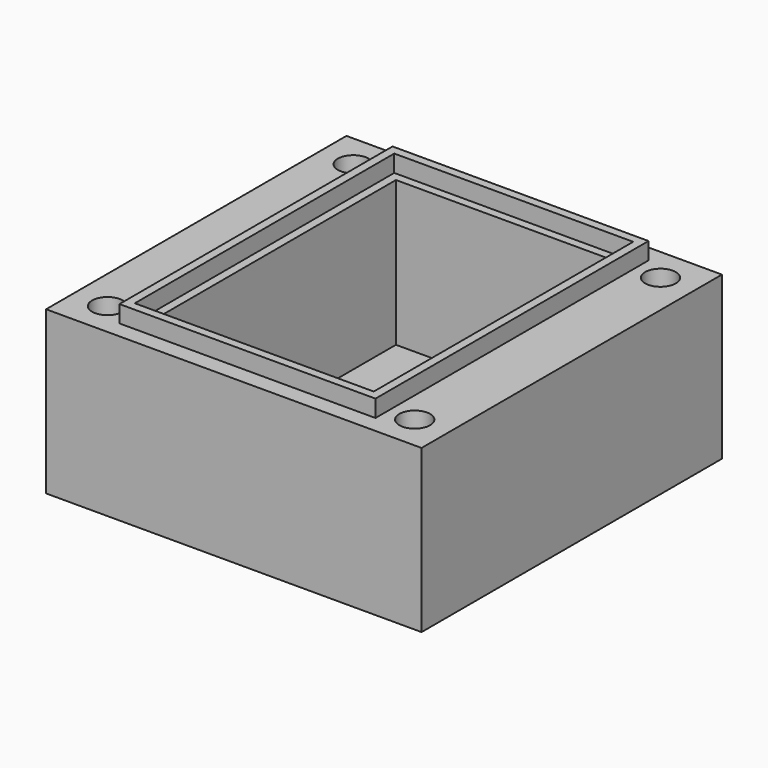
from build123d import *

# Parameters (mm, degrees)
CYLINDER002_R     = 1.5
CYLINDER002_DEPTH = 10
CYLINDER001_R     = 1.5
CYLINDER001_DEPTH = 10
SKETCH_W          = 30
SKETCH_H          = 40
SKETCH_W_2        = 28
SKETCH_H_2        = 38
PAD_DEPTH         = 2
CYLINDER006_R     = 1.8
CYLINDER006_DEPTH = 6
CYLINDER007_R     = 1.8
CYLINDER007_DEPTH = 6
CYLINDER008_R     = 1.8
CYLINDER008_DEPTH = 6
CYLINDER005_R     = 1.8
CYLINDER005_DEPTH = 6
BOX001_W          = 26
BOX001_H          = 36
BOX001_DEPTH      = 17
BOX_W             = 44
BOX_H             = 44
BOX_DEPTH         = 19


with BuildPart() as obj1:
    # Cylinder002 → Cylinder002 (new body)
    with BuildSketch(Plane(origin=(25, 35, 2), x_dir=(1, 0, 0), z_dir=(0, 0, 1))):
        Circle(CYLINDER002_R)
    extrude(amount=CYLINDER002_DEPTH)


with BuildPart() as obj2:
    # Cylinder001 → Cylinder001 (new body)
    with BuildSketch(Plane(origin=(5, 5, 2), x_dir=(1, 0, 0), z_dir=(0, 0, 1))):
        Circle(CYLINDER001_R)
    extrude(amount=CYLINDER001_DEPTH)


with BuildPart() as fusion022:
    # Sketch → Pad (new body)
    with BuildSketch(Plane(origin=(2, 2, 19), x_dir=(1, 0, 0), z_dir=(0, 0, 1))):
        with Locations((13, 18)):
            Rectangle(SKETCH_W, SKETCH_H)
        with Locations((13, 18)):
            Rectangle(SKETCH_W_2, SKETCH_H_2, mode=Mode.SUBTRACT)
    extrude(amount=PAD_DEPTH)

    # Fusion022: union obj1, obj2
    add(obj1.part)
    add(obj2.part)


with BuildPart() as obj3:
    # Cylinder006 → Cylinder006 (new body)
    with BuildSketch(Plane(origin=(-3, 38, 15), x_dir=(1, 0, 0), z_dir=(0, 0, 1))):
        Circle(CYLINDER006_R)
    extrude(amount=CYLINDER006_DEPTH)


with BuildPart() as obj4:
    # Cylinder007 → Cylinder007 (new body)
    with BuildSketch(Plane(origin=(33, 2, 15), x_dir=(1, 0, 0), z_dir=(0, 0, 1))):
        Circle(CYLINDER007_R)
    extrude(amount=CYLINDER007_DEPTH)


with BuildPart() as obj5:
    # Cylinder008 → Cylinder008 (new body)
    with BuildSketch(Plane(origin=(33, 38, 15), x_dir=(1, 0, 0), z_dir=(0, 0, 1))):
        Circle(CYLINDER008_R)
    extrude(amount=CYLINDER008_DEPTH)


with BuildPart() as screw_cut001:
    # Cylinder005 → Cylinder005 (new body)
    with BuildSketch(Plane(origin=(-3, 2, 15), x_dir=(1, 0, 0), z_dir=(0, 0, 1))):
        Circle(CYLINDER005_R)
    extrude(amount=CYLINDER005_DEPTH)

    # Fusion017: union obj3, obj4, obj5
    add(obj3.part)
    add(obj4.part)
    add(obj5.part)


with BuildPart() as box_in:
    # Box001 → Box001 (new body)
    with BuildSketch(Plane(origin=(2, 2, 2), x_dir=(1, 0, 0), z_dir=(0, 0, 1))):
        with Locations((13, 18)):
            Rectangle(BOX001_W, BOX001_H)
    extrude(amount=BOX001_DEPTH)


with BuildPart() as base_final:
    # Box → Box (new body)
    with BuildSketch(Plane(origin=(-7, -2, 0), x_dir=(1, 0, 0), z_dir=(0, 0, 1))):
        with Locations((22, 22)):
            Rectangle(BOX_W, BOX_H)
    extrude(amount=BOX_DEPTH)

    # Cut: cut Box_in
    add(box_in.part, mode=Mode.SUBTRACT)

    # Cut007: cut Screw_cut001
    add(screw_cut001.part, mode=Mode.SUBTRACT)

    # Fusion023: union Fusion022
    add(fusion022.part)


solid = base_final.part
